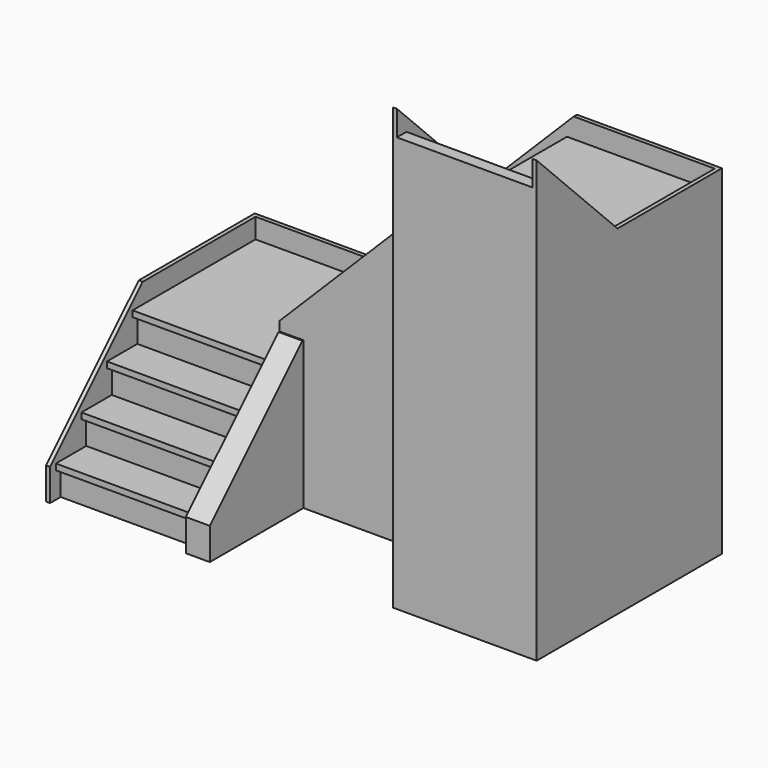
from build123d import *

# Parameters (mm, degrees)
F1_DEPTH       = 914.4
F3_DEPTH       = 914.4
F5_DEPTH       = 914.4
F7_DEPTH       = 25.4
F9_DEPTH       = 25.4
F11_DEPTH      = 25.4
F13_DEPTH      = 25.4
F15_DEPTH      = 25.4
F19_DEPTH      = 457.2
F21_DEPTH      = 25.4
F21_DEPTH_BACK = 127
F22_W          = 38.1
F22_H          = 38.1
F23_DEPTH      = 889


with BuildPart() as f1:
    # F0 (on Right) → F1 (new body)
    with BuildSketch(Plane.YZ):
        Polygon((-1574.8, 0), (0, 0), (0, 812.8), (-965.2, 812.8), (-965.2, 609.6), (-1168.4, 609.6), (-1168.4, 406.4), (-1371.6, 406.4), (-1371.6, 203.2), (-1574.8, 203.2), align=None)
    extrude(amount=F1_DEPTH)

    # F2 (on face) → F3 (join)
    with BuildSketch(Plane(origin=(0, 0, 0), x_dir=(-1, 0, 0), z_dir=(0, 1, 0))):
        Polygon((-914.4, 0), (-914.4, 812.8), (-990.6, 812.8), (-990.6, 1016), (-1193.8, 1016), (-1193.8, 1219.2), (-1397, 1219.2), (-1397, 1422.4), (-1600.2, 1422.4), (-1600.2, 1625.6), (-1803.4, 1625.6), (-1803.4, 1828.8), (-2006.6, 1828.8), (-2006.6, 2032), (-2971.8, 2032), (-2971.8, 0), align=None)
    extrude(amount=-F3_DEPTH)

    # F4 (on face) → F5 (join)
    with BuildSketch(Plane.YZ.offset(2971.8)):
        Polygon((-914.4, 0), (-914.4, 2032), (-990.6, 2032), (-990.6, 2235.2), (-1193.8, 2235.2), (-1193.8, 2438.4), (-1397, 2438.4), (-1397, 2641.6), (-1473.2, 2641.6), (-1473.2, 0), align=None)
    extrude(amount=-F5_DEPTH)

    # F6 (on face) → F7 (join)
    with BuildSketch(Plane.YZ.offset(2971.8)):
        Polygon((-1473.2, 2801.9681958742), (-1473.2, 2514.6), (-990.6, 2032), (0, 2032), (0, 2159), (-830.2318041258, 2159), align=None)
    extrude(amount=-F7_DEPTH)

    # F8 (on face) → F9 (join)
    with BuildSketch(Plane(origin=(0, 0, 0), x_dir=(-1, 0, 0), z_dir=(0, 1, 0))):
        Polygon((-2049.4318041258, 2159), (-2946.4, 2159), (-2946.4, 2032), (-2209.8, 2032), (-990.6, 812.8), (0, 812.8), (0, 939.8), (-830.2318041258, 939.8), align=None)
    extrude(amount=-F9_DEPTH)

    # F10 (on face) → F11 (join)
    with BuildSketch(Plane(origin=(0, 0, 0), x_dir=(0, -1, 0), z_dir=(-1, 0, 0))):
        Polygon((922.3681958742, 939.8), (25.4, 939.8), (25.4, 812.8), (762, 812.8), (1574.8, 0), (1658.9681958742, 0), (1658.9681958742, 203.2), align=None)
    extrude(amount=-F11_DEPTH)

    # F12 (on face) → F13 (join)
    with BuildSketch(Plane(origin=(2057.4, 0, 0), x_dir=(0, -1, 0), z_dir=(-1, 0, 0))):
        Polygon((1473.2, 2801.9681958742), (889, 2217.7681958742), (889, 2032), (990.6, 2032), (1473.2, 2514.6), (1473.2, 2641.6), align=None)
    extrude(amount=-F13_DEPTH)

    # F14 (on face) → F15 (join)
    with BuildSketch(Plane(origin=(0, -889, 0), x_dir=(-1, 0, 0), z_dir=(0, 1, 0))):
        Polygon((-889, 812.8), (-889, 998.5681958742), (-2049.4318041258, 2159), (-2082.8, 2159), (-2082.8, 1905), (-990.6, 812.8), align=None)
    extrude(amount=-F15_DEPTH)

    # F18 (on face) → F19 (cut, through all)
    with BuildSketch(Plane.XZ.offset(1371.6)):
        Polygon((1625.6, 203.2), (1828.8, 203.2), (1828.8, 609.6), (1422.4, 609.6), (1422.4, 406.4), (1625.6, 406.4), align=None)
    extrude(amount=-F19_DEPTH, mode=Mode.SUBTRACT)

    # F20 (on face) → F21 (join, two sides)
    with BuildSketch(Plane.YZ.offset(914.4)) as f21_sk:
        Polygon((-1658.9681958742, 203.2), (-1658.9681958742, 0), (-889, 0), (-889, 939.8), (-922.3681958742, 939.8), align=None)
    extrude(amount=-F21_DEPTH)
    extrude(f21_sk.sketch, amount=F21_DEPTH_BACK)

    # F22 (on face) → F23 (join, through all)
    with BuildSketch(Plane(origin=(0, 0, 0), x_dir=(0, -1, 0), z_dir=(-1, 0, 0))):
        with Locations((984.25, 793.75)):
            Rectangle(F22_W, F22_H)
        with Locations((1187.45, 590.55)):
            Rectangle(F22_W, F22_H)
        with Locations((1390.65, 387.35)):
            Rectangle(F22_W, F22_H)
        with Locations((1593.85, 184.15)):
            Rectangle(F22_W, F22_H)
    extrude(amount=-F23_DEPTH)


solid = f1.part
